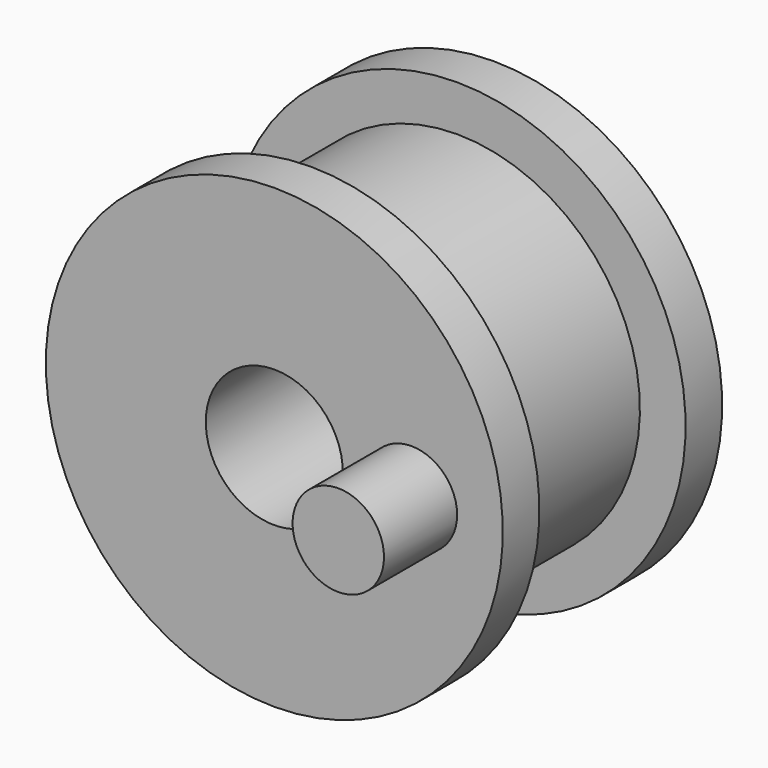
from build123d import *

# Parameters (mm, degrees)
F0_W     = 12.7
F0_H     = 7.9375
F2_R     = 3.175
F3_DEPTH = 6.35


with BuildPart() as f1:
    # F0 (on Right) → F1 (revolve)
    with BuildSketch(Plane.YZ):
        with Locations((0, 8.73125)):
            Rectangle(F0_W, F0_H)
        Polygon((-6.35, 4.7625), (-6.35, 12.7), (-6.35, 15.875), (-9.525, 15.875), (-9.525, 4.7625), align=None)
        Polygon((6.35, 15.875), (6.35, 12.7), (6.35, 4.7625), (9.525, 4.7625), (9.525, 15.875), align=None)
    revolve(axis=Axis((0, 0, 0), (0, 1, 0)))

    # F2 (on face) → F3 (join)
    with BuildSketch(Plane.XZ.offset(9.525)):
        with Locations((9.525, 0)):
            Circle(F2_R)
    extrude(amount=F3_DEPTH)


solid = f1.part
